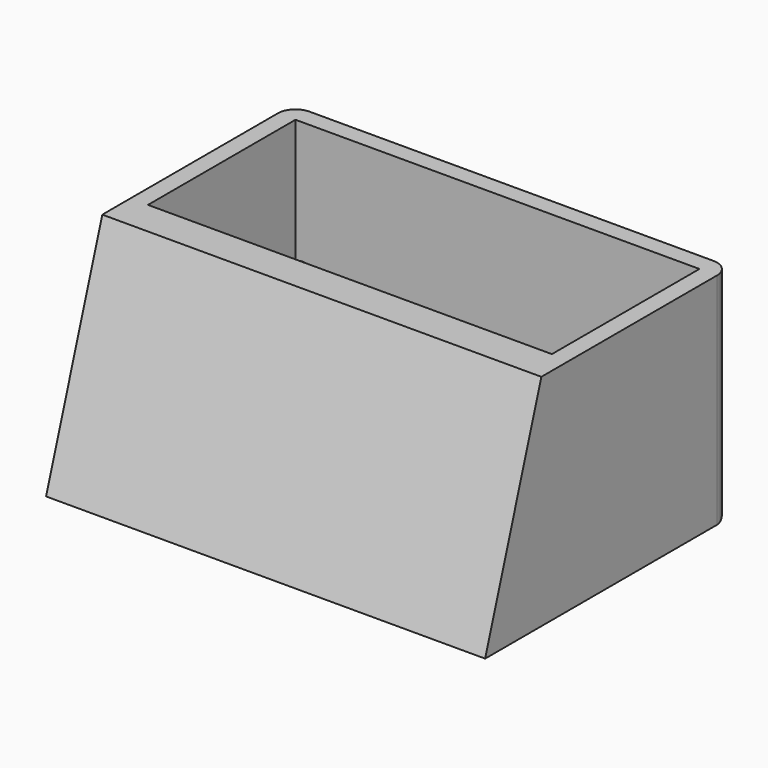
from build123d import *

# Parameters (mm, degrees)
F0_W     = 46
F0_H     = 2
F0_R     = 1.5
F0_R_2   = 0.575
F0_H_2   = 21
F0_R_3   = 8.1
F1_DEPTH = 2
F2_DEPTH = 25
F3_DEPTH = 7
F4_DEPTH = 12
F5_R     = 2
F7_DEPTH = 52


with BuildPart() as f1:
    # F0 (on Top) → F1 (new body)
    with BuildSketch(Plane.XY):
        with Locations((1.93201, 4.360505)):
            Rectangle(F0_W, F0_H)
        with Locations((-19.06799, 1.360505)):
            Circle(F0_R)
        with Locations((-19.06799, 1.360505)):
            Circle(F0_R_2, mode=Mode.SUBTRACT)
        with Locations((22.93201, -15.639495)):
            Circle(F0_R)
        with Locations((22.93201, -15.639495)):
            Circle(F0_R_2, mode=Mode.SUBTRACT)
        with Locations((22.93201, 1.360505)):
            Circle(F0_R)
        with Locations((22.93201, 1.360505)):
            Circle(F0_R_2, mode=Mode.SUBTRACT)
        with Locations((-19.06799, -15.639495)):
            Circle(F0_R)
        with Locations((-19.06799, -15.639495)):
            Circle(F0_R_2, mode=Mode.SUBTRACT)
        with Locations((1.93201, -7.139495)):
            Rectangle(F0_W, F0_H_2)
        with Locations((-19.06799, -15.639495)):
            Circle(F0_R, mode=Mode.SUBTRACT)
        with Locations((22.93201, -15.639495)):
            Circle(F0_R, mode=Mode.SUBTRACT)
        with Locations((-11.06799, -7.139495)):
            Circle(F0_R_3, mode=Mode.SUBTRACT)
        with Locations((-19.06799, 1.360505)):
            Circle(F0_R, mode=Mode.SUBTRACT)
        with Locations((14.93201, -7.139495)):
            Circle(F0_R_3, mode=Mode.SUBTRACT)
        with Locations((22.93201, 1.360505)):
            Circle(F0_R, mode=Mode.SUBTRACT)
        Polygon((-21.06799, 5.360505), (-23.06799, 5.360505), (-23.06799, -19.639495), (-21.06799, -19.639495), (-21.06799, -17.639495), (-21.06799, 3.360505), align=None)
        Polygon((-21.06799, -17.639495), (-21.06799, -19.639495), (26.93201, -19.639495), (26.93201, -17.639495), (24.93201, -17.639495), align=None)
        Polygon((26.93201, 5.360505), (24.93201, 5.360505), (24.93201, 3.360505), (24.93201, -17.639495), (26.93201, -17.639495), align=None)
    extrude(amount=F1_DEPTH)

    # F0 (on Top) → F2 (join)
    with BuildSketch(Plane.XY):
        Polygon((-21.06799, 5.360505), (-23.06799, 5.360505), (-23.06799, -19.639495), (-21.06799, -19.639495), (-21.06799, -17.639495), (-21.06799, 3.360505), align=None)
        with Locations((1.93201, 4.360505)):
            Rectangle(F0_W, F0_H)
        Polygon((-21.06799, -17.639495), (-21.06799, -19.639495), (26.93201, -19.639495), (26.93201, -17.639495), (24.93201, -17.639495), align=None)
        Polygon((26.93201, 5.360505), (24.93201, 5.360505), (24.93201, 3.360505), (24.93201, -17.639495), (26.93201, -17.639495), align=None)
        Polygon((-21.06799, -17.639495), (-21.06799, -19.639495), (26.93201, -19.639495), (26.93201, -17.639495), (24.93201, -17.639495), align=None)
        Polygon((-21.06799, -19.639495), (-23.06799, -19.639495), (-23.06799, -29.639495), (26.93201, -29.639495), (26.93201, -19.639495), align=None)
    extrude(amount=F2_DEPTH)

    # F0 (on Top) → F3 (join)
    with BuildSketch(Plane.XY):
        with Locations((-19.06799, 1.360505)):
            Circle(F0_R)
        with Locations((-19.06799, 1.360505)):
            Circle(F0_R_2, mode=Mode.SUBTRACT)
        with Locations((-19.06799, -15.639495)):
            Circle(F0_R)
        with Locations((-19.06799, -15.639495)):
            Circle(F0_R_2, mode=Mode.SUBTRACT)
        with Locations((22.93201, 1.360505)):
            Circle(F0_R)
        with Locations((22.93201, 1.360505)):
            Circle(F0_R_2, mode=Mode.SUBTRACT)
        with Locations((22.93201, -15.639495)):
            Circle(F0_R)
        with Locations((22.93201, -15.639495)):
            Circle(F0_R_2, mode=Mode.SUBTRACT)
    extrude(amount=F3_DEPTH)

    # F0 (on Top) → F4 (join)
    with BuildSketch(Plane.XY):
        with Locations((-19.06799, 1.360505)):
            Circle(F0_R_2)
        with Locations((-19.06799, -15.639495)):
            Circle(F0_R_2)
        with Locations((22.93201, -15.639495)):
            Circle(F0_R_2)
        with Locations((22.93201, 1.360505)):
            Circle(F0_R_2)
    extrude(amount=F4_DEPTH)

    # F5
    f5_edges = [f1.edges().sort_by_distance(p)[0] for p in [
        (1.93201, 5.360505, 0),
        (26.93201, 5.360505, 12.5),
        (-23.06799, 5.360505, 12.5),
    ]]
    fillet(f5_edges, radius=F5_R)

    # F6 (on face) → F7 (cut)
    with BuildSketch(Plane.YZ.offset(26.93201)):
        Polygon((-29.639495, 0), (-21.639495, 25), (-29.639495, 25), align=None)
    extrude(amount=-F7_DEPTH, mode=Mode.SUBTRACT)


solid = f1.part
